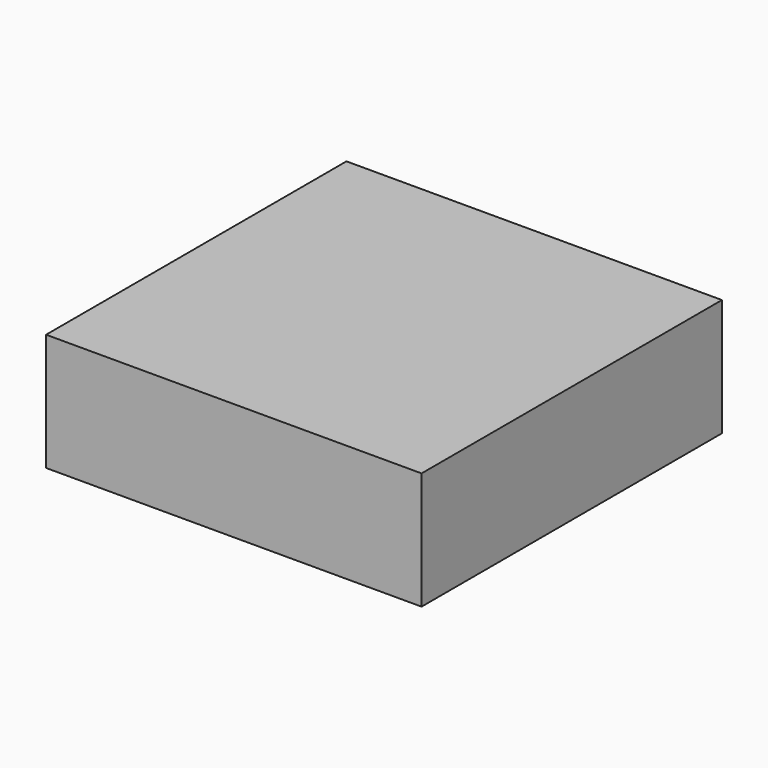
from build123d import *

# Parameters (mm, degrees)
F0_W     = 2440
F0_H     = 610
F0_W_2   = 915
F0_H_2   = 1830
F0_W_3   = 4270
F1_DEPTH = 2500
F2_DEPTH = 2000
F3_DEPTH = 5


with BuildPart() as f1:
    # F0 (on Top) → F1 (new body)
    with BuildSketch(Plane.XY):
        Polygon((8000, 0), (0, 0), (0, -1220), (915, -1220), (915, -3050), (0, -3050), (0, -4270), (915, -4270), (915, -6100), (0, -6100), (0, -8000), (8000, -8000), align=None)
        with Locations((3660, -3355)):
            Rectangle(F0_W, F0_H, mode=Mode.SUBTRACT)
        Polygon((2440, -1830), (2440, -1220), (6710, -1220), (6710, -1830), (6710, -2440), (2440, -2440), align=None, mode=Mode.SUBTRACT)
        with Locations((457.5, -5185)):
            Rectangle(F0_W_2, F0_H_2)
        with Locations((457.5, -2135)):
            Rectangle(F0_W_2, F0_H_2)
        with Locations((3660, -3355)):
            Rectangle(F0_W, F0_H)
        with Locations((4575, -2135)):
            Rectangle(F0_W_3, F0_H)
        with Locations((4575, -1525)):
            Rectangle(F0_W_3, F0_H)
    extrude(amount=F1_DEPTH)

    # F0 (on Top) → F2 (cut)
    with BuildSketch(Plane.XY):
        with Locations((457.5, -5185)):
            Rectangle(F0_W_2, F0_H_2)
        with Locations((457.5, -2135)):
            Rectangle(F0_W_2, F0_H_2)
        with Locations((3660, -3355)):
            Rectangle(F0_W, F0_H)
        with Locations((4575, -1525)):
            Rectangle(F0_W_3, F0_H)
    extrude(amount=F2_DEPTH, mode=Mode.SUBTRACT)

    # F0 (on Top) → F3 (cut)
    with BuildSketch(Plane.XY):
        with Locations((4575, -2135)):
            Rectangle(F0_W_3, F0_H)
    extrude(amount=F3_DEPTH, mode=Mode.SUBTRACT)


solid = f1.part
